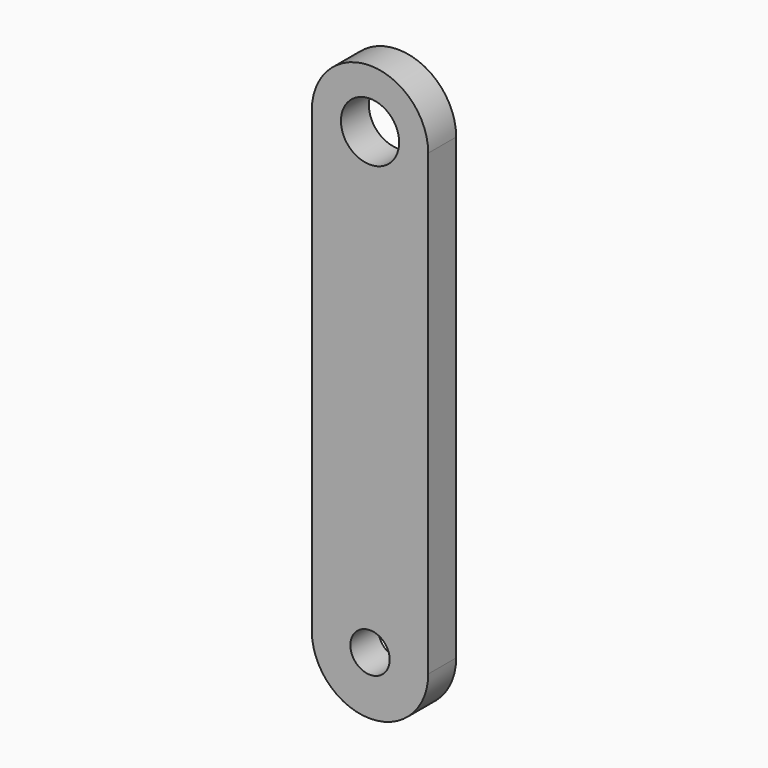
from build123d import *

# Parameters (mm, degrees)
F0_R     = 1.6891
F0_R_2   = 2.5
F1_DEPTH = 3


with BuildPart() as f1:
    # F0 (on Front) → F1 (new body)
    with BuildSketch(Plane.XZ):
        with BuildLine():
            ThreePointArc((-5, -19.7), (0, -24.7), (5, -19.7))
            Line((5, -19.7), (5, 19.7))
            ThreePointArc((5, 19.7), (0, 24.7), (-5, 19.7))
            Line((-5, 19.7), (-5, -19.7))
        make_face()
        with Locations((0, -19.7)):
            Circle(F0_R, mode=Mode.SUBTRACT)
        with Locations((0, 19.7)):
            Circle(F0_R_2, mode=Mode.SUBTRACT)
    extrude(amount=F1_DEPTH)


solid = f1.part
